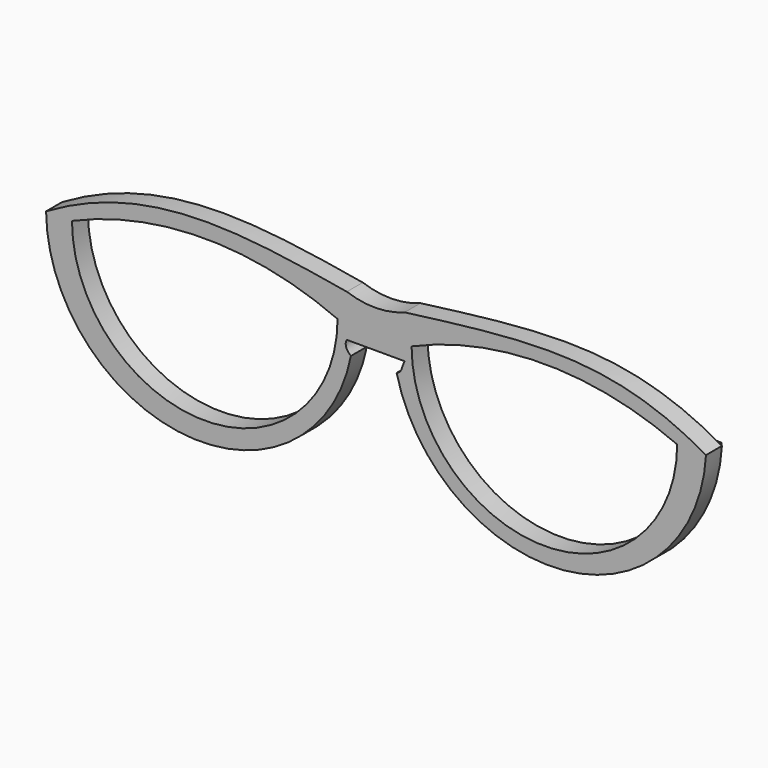
from build123d import *

# Parameters (mm, degrees)
F1_DEPTH  = 3.81
F3_DEPTH  = 1.27
F4_R      = 0.254
F5_DEPTH  = 0.0508
F6_R      = 0.254
F7_DEPTH  = 0.0508
F10_DEPTH = 1.27
F11_R     = 0.254
F12_DEPTH = 0.0508
F13_R     = 0.254
F14_DEPTH = 0.0508


with BuildPart() as f1:
    # F0 (on Front) → F1 (new body)
    with BuildSketch(Plane.XZ):
        with BuildLine():
            add(Edge.make_bspline(
                [(-62.9689469934, 0), (-43.4820093215, 11.4878732711), (-25.4599396139, 8.5638780147), (-5.4366267286, 5.1720426418)],
                knots=[0, 0, 0, 0, 57.7643306906, 57.7643306906, 57.7643306906, 57.7643306906], degree=3))
            ThreePointArc((-62.9689469934, 0), (-36.2522522442, -29.0356523147), (-4.66360664, -5.3922948427))
            add(Edge.make_bspline(
                [(-4.66360664, -5.3922948427), (-5.5713243783, -4.7302497551), (-5.9305182658, -3.6526678596), (-5.4366267286, -2.9342800844)],
                knots=[0, 0, 0, 0, 2.5767026622, 2.5767026622, 2.5767026622, 2.5767026622], degree=3))
            Line((-5.4366267286, -2.9342800844), (5.6085870601, -2.9342800844))
            add(Edge.make_bspline(
                [(4.0806569159, -5.3922948427), (5.2044941112, -5.0445445813), (5.0992770121, -3.7536183372), (5.6085870601, -2.9342800844)],
                knots=[0, 0, 0, 0, 2.8942023215, 2.8942023215, 2.8942023215, 2.8942023215], degree=3))
            ThreePointArc((4.0806569159, -5.3922948427), (35.9938478734, -28.2460028311), (63.250169158, 0))
            add(Edge.make_bspline(
                [(63.250169158, 0), (45.1895557344, 10.4495026171), (29.6890791506, 8.4054833278), (5.6085870601, 5.289001856)],
                knots=[0, 0, 0, 0, 57.883724201, 57.883724201, 57.883724201, 57.883724201], degree=3))
            ThreePointArc((5.6085870601, 5.289001856), (0.0963910818, 4.247352223), (-5.4366267286, 5.1720426418))
        make_face()
        with BuildLine():
            ThreePointArc((-7.2174832575, 0), (-32.6174700341, -25.3740819308), (-58.0174568108, 0))
            ThreePointArc((-58.0174568108, 0), (-32.6174700341, 5.3012829029), (-7.2174832575, 0))
        make_face(mode=Mode.SUBTRACT)
        with BuildLine():
            ThreePointArc((57.7398084539, 0), (32.339848041, -25.3551555329), (6.9398876282, 0))
            ThreePointArc((6.9398876282, 0), (32.339848041, 5.3012713968), (57.7398084539, 0))
        make_face(mode=Mode.SUBTRACT)
    extrude(amount=F1_DEPTH)

    # F2 (on face) → F3 (join)
    with BuildSketch(Plane(origin=(0, 0, 0), x_dir=(-1, 0, 0), z_dir=(0, 1, 0))):
        with BuildLine():
            Line((61.7441900933, -1.4002811255), (61.7441900933, -0.1302811255))
            Line((61.7441900933, -0.1302811255), (60.4741896731, -0.1302811255))
            Line((60.4741896731, -0.1302811255), (60.4741896731, -0.3842811255))
            add(Edge.make_bspline(
                [(60.4741896731, -1.1462811255), (59.7843156037, -0.8797379018), (59.7999927893, -0.6508243202), (60.4741896731, -0.3842811255)],
                knots=[0, 0, 0, 0, 0.762, 0.762, 0.762, 0.762], degree=3))
            Line((60.4741896731, -1.1462811255), (60.4741896731, -1.4002811255))
            Line((60.4741896731, -1.4002811255), (61.7441900933, -1.4002811255))
        make_face()
    extrude(amount=F3_DEPTH)

    # F6 (on face) → F7 (join)
    with BuildSketch(Plane(origin=(0, 0, -1.4002811255), x_dir=(1, 0, 0), z_dir=(0, 0, -1))):
        with Locations((-61.1091896731, -0.635)):
            Circle(F6_R)
    extrude(amount=F7_DEPTH)

    # F9 (on face) → F10 (join)
    with BuildSketch(Plane(origin=(0, 0, 0), x_dir=(-1, 0, 0), z_dir=(0, 1, 0))):
        with BuildLine():
            Line((-60.8700512755, -0.3216592674), (-62.1400512755, -0.3216592674))
            Line((-62.1400512755, -0.3216592674), (-62.1400512755, -1.5916592674))
            Line((-62.1400512755, -1.5916592674), (-60.8700512755, -1.5916592674))
            Line((-60.8700512755, -1.5916592674), (-60.8700512755, -1.3376592674))
            add(Edge.make_bspline(
                [(-60.8700512755, -1.3376592674), (-60.0512363017, -1.1532660574), (-59.9351897836, -0.8051300538), (-60.8700512755, -0.5756592674)],
                knots=[0, 0, 0, 0, 0.762, 0.762, 0.762, 0.762], degree=3))
            Line((-60.8700512755, -0.5756592674), (-60.8700512755, -0.3216592674))
        make_face()
    extrude(amount=F10_DEPTH)

    # F11 (on face) → F12 (join)
    with BuildSketch(Plane(origin=(0, 0, -1.5916592674), x_dir=(1, 0, 0), z_dir=(0, 0, -1))):
        with Locations((61.5050512755, -0.635)):
            Circle(F11_R)
    extrude(amount=F12_DEPTH)

    # F13 (on face) → F14 (join)
    with BuildSketch(Plane.XY.offset(-0.3216592674)):
        with Locations((61.5050512755, 0.635)):
            Circle(F13_R)
    extrude(amount=F14_DEPTH)


with BuildPart() as f5:
    # F4 (on Top) → F5 (new body)
    with BuildSketch(Plane.XY):
        with Locations((-61.1091896731, 0.635)):
            Circle(F4_R)
    extrude(amount=F5_DEPTH)


solid = Compound([f1.part, f5.part])
